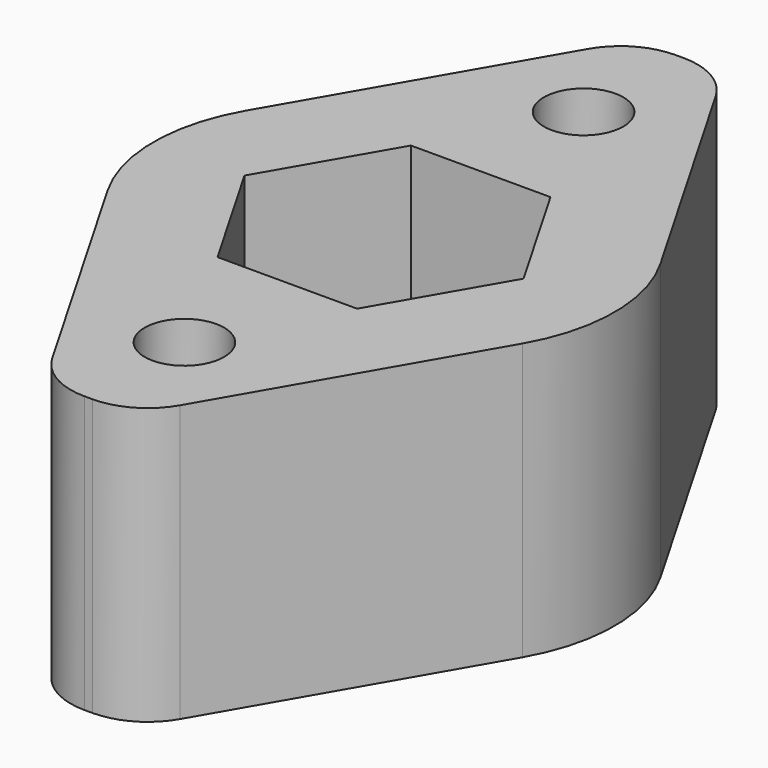
from build123d import *

# Parameters (mm, degrees)
F2_DEPTH      = 2
F7_DEPTH      = 6
F3_R          = 1.15
F8_DEPTH      = 2.001
F8_DEPTH_BACK = 6.001
F4_R          = 2.1
F9_DEPTH      = 2.001
F9_DEPTH_BACK = 4
F6_R          = 2.25
F10_DEPTH     = 2.001
F11_R         = 5
F12_R         = 2


with BuildPart() as f2:
    # F1 (on Top) → F2 (new body)
    with BuildSketch(Plane.XY):
        Polygon((1.2701705922, 10.7), (0, 10.7), (-1.2701705922, 10.7), (-7.4478184725, 0), (-1.2701705922, -10.7), (0, -10.7), (1.2701705922, -10.7), (7.4478184725, 0), align=None)
    extrude(amount=-F2_DEPTH)

    # F5 (on Top) → F7 (join)
    with BuildSketch(Plane.XY):
        Polygon((1.2701705922, -10.7), (7.4478184725, 0), (1.2701705922, 10.7), (0, 10.7), (-1.2701705922, 10.7), (-7.4478184725, 0), (-1.2701705922, -10.7), (0, -10.7), align=None)
        Polygon((2.0207259422, 3.5), (4.0414518843, 0), (2.0207259422, -3.5), (0, -3.5), (-2.0207259422, -3.5), (-4.0414518843, 0), (-2.0207259422, 3.5), (0, 3.5), align=None, mode=Mode.SUBTRACT)
    extrude(amount=F7_DEPTH)

    # F3 (on Top) → F8 (cut, two sides)
    with BuildSketch(Plane.XY) as f8_sk:
        with Locations((0, 7.225)):
            Circle(F3_R)
        with Locations((0, -7.225)):
            Circle(F3_R)
    extrude(amount=-F8_DEPTH, mode=Mode.SUBTRACT)
    extrude(f8_sk.sketch, amount=F8_DEPTH_BACK, mode=Mode.SUBTRACT)

    # F4 (on Top) → F9 (cut, two sides)
    with BuildSketch(Plane.XY) as f9_sk:
        with Locations((0, 7.225)):
            Circle(F4_R)
        with Locations((0, -7.225)):
            Circle(F4_R)
    extrude(amount=-F9_DEPTH, mode=Mode.SUBTRACT)
    extrude(f9_sk.sketch, amount=F9_DEPTH_BACK, mode=Mode.SUBTRACT)

    # F6 (on Top) → F10 (cut, through all)
    with BuildSketch(Plane.XY):
        Circle(F6_R)
    extrude(amount=-F10_DEPTH, mode=Mode.SUBTRACT)

    # F11
    f11_edges = [f2.edges().sort_by_distance(p)[0] for p in [
        (7.447818, 0, 2),
        (-7.447818, 0, 2),
    ]]
    fillet(f11_edges, radius=F11_R)

    # F12
    f12_edges = [f2.edges().sort_by_distance(p)[0] for p in [
        (1.270171, -10.7, 2),
        (-1.270171, -10.7, 2),
        (-1.270171, 10.7, 2),
        (1.270171, 10.7, 2),
    ]]
    fillet(f12_edges, radius=F12_R)


solid = f2.part
